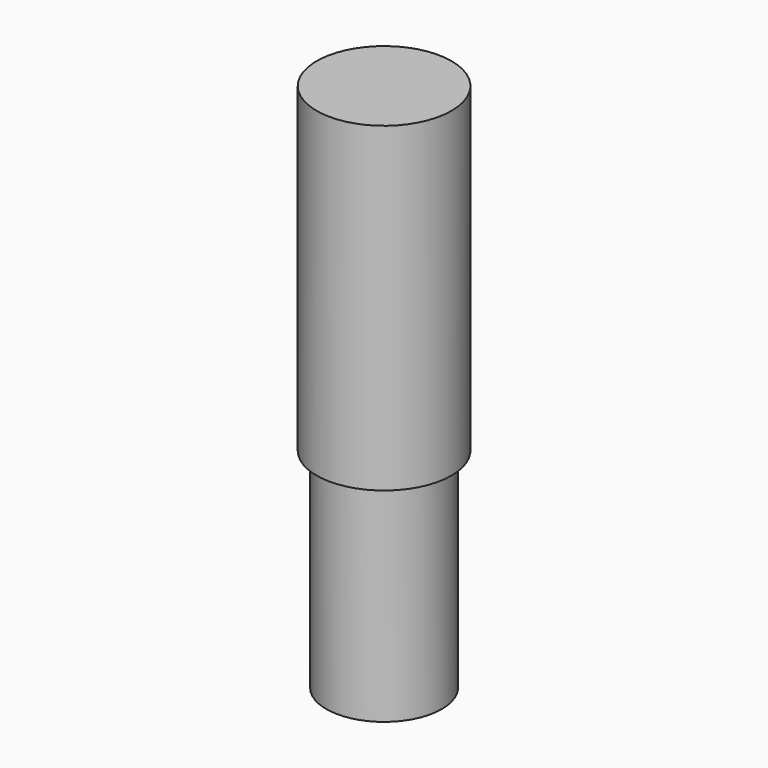
from build123d import *

# Parameters (mm, degrees)
F0_R     = 2.1
F1_DEPTH = 10
F2_R     = 1.8
F3_DEPTH = 6.5


with BuildPart() as f1:
    # F0 (on Top) → F1 (new body)
    with BuildSketch(Plane.XY):
        Circle(F0_R)
    extrude(amount=-F1_DEPTH)

    # F2 (on face) → F3 (join)
    with BuildSketch(Plane(origin=(0, 0, -10), x_dir=(1, 0, 0), z_dir=(0, 0, -1))):
        Circle(F2_R)
    extrude(amount=F3_DEPTH)


solid = f1.part
